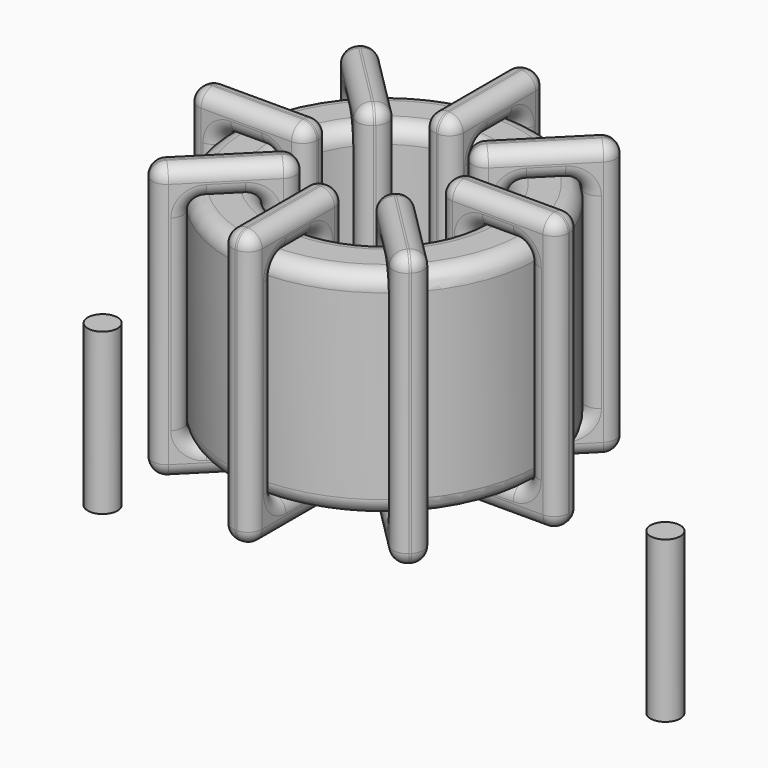
from build123d import *

# Parameters (mm, degrees)
SKETCH001_R       = 0.45
PAD001_DEPTH      = 0.45
PAD001_DEPTH_BACK = 4.4
SKETCH_R          = 4.688
SKETCH_R_2        = 2.9083
PAD_DEPTH         = 6.5
FILLET_R          = 0.5
SKETCH003_W       = 3.5797
SKETCH003_H       = 8.3
SKETCH003_W_2     = 1.7797
SKETCH003_H_2     = 6.5
PAD002_DEPTH      = 0.45
FILLET001_R       = 0.423
SKETCH004_W       = 3.5797
SKETCH004_H       = 8.3
SKETCH004_W_2     = 1.7797
SKETCH004_H_2     = 6.5
PAD003_DEPTH      = 0.45
FILLET002_R       = 0.423
SKETCH005_W       = 3.5797
SKETCH005_H       = 8.3
SKETCH005_W_2     = 1.7797
SKETCH005_H_2     = 6.5
PAD004_DEPTH      = 0.45
FILLET003_R       = 0.423
SKETCH006_W       = 3.5797
SKETCH006_H       = 8.3
SKETCH006_W_2     = 1.7797
SKETCH006_H_2     = 6.5
PAD005_DEPTH      = 0.45
FILLET004_R       = 0.423


with BuildPart() as pad001:
    # Sketch001 → Pad001 (new body, two sides)
    with BuildSketch(Plane.XY.offset(0.95)) as pad001_sk:
        Circle(SKETCH001_R)
        with Locations((17, 0)):
            Circle(SKETCH001_R)
    extrude(amount=PAD001_DEPTH)
    extrude(pad001_sk.sketch, amount=-PAD001_DEPTH_BACK)


with BuildPart() as fillet_body:
    # Sketch → Pad (new body)
    with BuildSketch(Plane.XY.offset(1.4)):
        with Locations((8.5, 0)):
            Circle(SKETCH_R)
        with Locations((8.5, 0)):
            Circle(SKETCH_R_2, mode=Mode.SUBTRACT)
    extrude(amount=PAD_DEPTH)

    # Fillet
    fillet_edges = [fillet_body.edges().sort_by_distance(p)[0] for p in [
        (5.5917, 0, 7.9),
        (3.812, 0, 7.9),
        (3.812, 0, 1.4),
    ]]
    fillet(fillet_edges, radius=FILLET_R)


with BuildPart() as fillet001:
    # Sketch003 → Pad002 (new body, symmetric)
    with BuildSketch(Plane(origin=(8.5, 0, 0), x_dir=(1, 0, 0), z_dir=(0, -1, 0))):
        with Locations((-3.79815, 4.65)):
            Rectangle(SKETCH003_W, SKETCH003_H)
        with Locations((-3.79815, 4.65)):
            Rectangle(SKETCH003_W_2, SKETCH003_H_2, mode=Mode.SUBTRACT)
        with Locations((3.79815, 4.65)):
            Rectangle(SKETCH003_W, SKETCH003_H)
        with Locations((3.79815, 4.65)):
            Rectangle(SKETCH003_W_2, SKETCH003_H_2, mode=Mode.SUBTRACT)
    extrude(amount=PAD002_DEPTH, both=True)

    # Fillet001
    fillet001_edges = [fillet001.edges().sort_by_distance(p)[0] for p in [
        (5.5917, 0, 7.9),
        (5.5917, 0, 1.4),
        (5.5917, 0.45, 4.65),
        (5.5917, -0.45, 4.65),
        (2.912, 0, 8.8),
        (6.4917, 0, 8.8),
        (4.70185, 0.45, 8.8),
        (4.70185, -0.45, 8.8),
        (6.4917, 0, 0.5),
        (6.4917, 0.45, 4.65),
        (6.4917, -0.45, 4.65),
        (11.4083, 0, 7.9),
        (13.188, 0, 7.9),
        (12.29815, 0.45, 7.9),
        (12.29815, -0.45, 7.9),
        (13.188, 0, 1.4),
        (13.188, 0.45, 4.65),
        (13.188, -0.45, 4.65),
        (10.5083, 0, 8.8),
        (14.088, 0, 8.8),
        (12.29815, 0.45, 8.8),
        (12.29815, -0.45, 8.8),
        (14.088, 0, 0.5),
        (14.088, 0.45, 4.65),
        (14.088, -0.45, 4.65),
        (3.812, 0, 7.9),
        (4.70185, 0.45, 7.9),
        (4.70185, -0.45, 7.9),
        (11.4083, 0, 1.4),
        (11.4083, 0.45, 4.65),
        (11.4083, -0.45, 4.65),
        (12.29815, 0.45, 1.4),
        (12.29815, -0.45, 1.4),
        (10.5083, 0, 0.5),
        (12.29815, 0.45, 0.5),
        (12.29815, -0.45, 0.5),
        (10.5083, 0.45, 4.65),
        (10.5083, -0.45, 4.65),
        (2.912, 0, 0.5),
        (4.70185, 0.45, 0.5),
        (4.70185, -0.45, 0.5),
        (2.912, 0.45, 4.65),
        (2.912, -0.45, 4.65),
        (3.812, 0, 1.4),
        (3.812, 0.45, 4.65),
        (3.812, -0.45, 4.65),
        (4.70185, 0.45, 1.4),
        (4.70185, -0.45, 1.4),
    ]]
    fillet(fillet001_edges, radius=FILLET001_R)


with BuildPart() as fillet002:
    # Sketch004 → Pad003 (new body, symmetric)
    with BuildSketch(Plane(origin=(8.5, 0, 0), x_dir=(0.707107, 0.707107, 0), z_dir=(0.707107, -0.707107, 0))):
        with Locations((-3.79815, 4.65)):
            Rectangle(SKETCH004_W, SKETCH004_H)
        with Locations((-3.79815, 4.65)):
            Rectangle(SKETCH004_W_2, SKETCH004_H_2, mode=Mode.SUBTRACT)
        with Locations((3.79815, 4.65)):
            Rectangle(SKETCH004_W, SKETCH004_H)
        with Locations((3.79815, 4.65)):
            Rectangle(SKETCH004_W_2, SKETCH004_H_2, mode=Mode.SUBTRACT)
    extrude(amount=PAD003_DEPTH, both=True)

    # Fillet002
    fillet002_edges = [fillet002.edges().sort_by_distance(p)[0] for p in [
        (6.443521, -2.056479, 7.9),
        (6.443521, -2.056479, 1.4),
        (6.125323, -1.738281, 4.65),
        (6.761719, -2.374677, 4.65),
        (4.548687, -3.951313, 8.8),
        (7.079917, -1.420083, 8.8),
        (5.496104, -2.3675, 8.8),
        (6.1325, -3.003896, 8.8),
        (7.079917, -1.420083, 0.5),
        (6.761719, -1.101884, 4.65),
        (7.398116, -1.738281, 4.65),
        (10.556479, 2.056479, 7.9),
        (11.814917, 3.314917, 7.9),
        (10.8675, 3.003896, 7.9),
        (11.503896, 2.3675, 7.9),
        (11.814917, 3.314917, 1.4),
        (11.496719, 3.633115, 4.65),
        (12.133115, 2.996719, 4.65),
        (9.920083, 1.420083, 8.8),
        (12.451313, 3.951313, 8.8),
        (10.8675, 3.003896, 8.8),
        (11.503896, 2.3675, 8.8),
        (12.451313, 3.951313, 0.5),
        (12.133115, 4.269511, 4.65),
        (12.769511, 3.633115, 4.65),
        (5.185083, -3.314917, 7.9),
        (5.496104, -2.3675, 7.9),
        (6.1325, -3.003896, 7.9),
        (10.556479, 2.056479, 1.4),
        (10.238281, 2.374677, 4.65),
        (10.874677, 1.738281, 4.65),
        (10.8675, 3.003896, 1.4),
        (11.503896, 2.3675, 1.4),
        (9.920083, 1.420083, 0.5),
        (10.8675, 3.003896, 0.5),
        (11.503896, 2.3675, 0.5),
        (9.601884, 1.738281, 4.65),
        (10.238281, 1.101884, 4.65),
        (4.548687, -3.951313, 0.5),
        (5.496104, -2.3675, 0.5),
        (6.1325, -3.003896, 0.5),
        (4.230489, -3.633115, 4.65),
        (4.866885, -4.269511, 4.65),
        (5.185083, -3.314917, 1.4),
        (4.866885, -2.996719, 4.65),
        (5.503281, -3.633115, 4.65),
        (5.496104, -2.3675, 1.4),
        (6.1325, -3.003896, 1.4),
    ]]
    fillet(fillet002_edges, radius=FILLET002_R)


with BuildPart() as fillet003:
    # Sketch005 → Pad004 (new body, symmetric)
    with BuildSketch(Plane(origin=(8.5, 0, 0), x_dir=(0.707107, -0.707107, 0), z_dir=(-0.707107, -0.707107, 0))):
        with Locations((-3.79815, 4.65)):
            Rectangle(SKETCH005_W, SKETCH005_H)
        with Locations((-3.79815, 4.65)):
            Rectangle(SKETCH005_W_2, SKETCH005_H_2, mode=Mode.SUBTRACT)
        with Locations((3.79815, 4.65)):
            Rectangle(SKETCH005_W, SKETCH005_H)
        with Locations((3.79815, 4.65)):
            Rectangle(SKETCH005_W_2, SKETCH005_H_2, mode=Mode.SUBTRACT)
    extrude(amount=PAD004_DEPTH, both=True)

    # Fillet003
    fillet003_edges = [fillet003.edges().sort_by_distance(p)[0] for p in [
        (5.185083, 3.314917, 7.9),
        (6.443521, 2.056479, 1.4),
        (6.1325, 3.003896, 1.4),
        (5.496104, 2.3675, 1.4),
        (4.548687, 3.951313, 8.8),
        (7.079917, 1.420083, 8.8),
        (6.1325, 3.003896, 8.8),
        (5.496104, 2.3675, 8.8),
        (7.079917, 1.420083, 0.5),
        (7.398116, 1.738281, 4.65),
        (6.761719, 1.101884, 4.65),
        (10.556479, -2.056479, 1.4),
        (10.556479, -2.056479, 7.9),
        (10.874677, -1.738281, 4.65),
        (10.238281, -2.374677, 4.65),
        (11.814917, -3.314917, 1.4),
        (11.503896, -2.3675, 1.4),
        (10.8675, -3.003896, 1.4),
        (9.920083, -1.420083, 8.8),
        (12.451313, -3.951313, 8.8),
        (11.503896, -2.3675, 8.8),
        (10.8675, -3.003896, 8.8),
        (12.451313, -3.951313, 0.5),
        (12.769511, -3.633115, 4.65),
        (12.133115, -4.269511, 4.65),
        (5.185083, 3.314917, 1.4),
        (5.503281, 3.633115, 4.65),
        (4.866885, 2.996719, 4.65),
        (11.814917, -3.314917, 7.9),
        (11.503896, -2.3675, 7.9),
        (10.8675, -3.003896, 7.9),
        (12.133115, -2.996719, 4.65),
        (11.496719, -3.633115, 4.65),
        (9.920083, -1.420083, 0.5),
        (11.503896, -2.3675, 0.5),
        (10.8675, -3.003896, 0.5),
        (10.238281, -1.101884, 4.65),
        (9.601884, -1.738281, 4.65),
        (4.548687, 3.951313, 0.5),
        (6.1325, 3.003896, 0.5),
        (5.496104, 2.3675, 0.5),
        (4.866885, 4.269511, 4.65),
        (4.230489, 3.633115, 4.65),
        (6.443521, 2.056479, 7.9),
        (6.1325, 3.003896, 7.9),
        (5.496104, 2.3675, 7.9),
        (6.761719, 2.374677, 4.65),
        (6.125323, 1.738281, 4.65),
    ]]
    fillet(fillet003_edges, radius=FILLET003_R)


with BuildPart() as fillet004:
    # Sketch006 → Pad005 (new body, symmetric)
    with BuildSketch(Plane.YZ.offset(8.5)):
        with Locations((-3.79815, 4.65)):
            Rectangle(SKETCH006_W, SKETCH006_H)
        with Locations((-3.79815, 4.65)):
            Rectangle(SKETCH006_W_2, SKETCH006_H_2, mode=Mode.SUBTRACT)
        with Locations((3.79815, 4.65)):
            Rectangle(SKETCH006_W, SKETCH006_H)
        with Locations((3.79815, 4.65)):
            Rectangle(SKETCH006_W_2, SKETCH006_H_2, mode=Mode.SUBTRACT)
    extrude(amount=PAD005_DEPTH, both=True)

    # Fillet004
    fillet004_edges = [fillet004.edges().sort_by_distance(p)[0] for p in [
        (8.5, -2.9083, 7.9),
        (8.5, -2.9083, 1.4),
        (8.05, -2.9083, 4.65),
        (8.95, -2.9083, 4.65),
        (8.5, -5.588, 8.8),
        (8.5, -2.0083, 8.8),
        (8.05, -3.79815, 8.8),
        (8.95, -3.79815, 8.8),
        (8.5, -2.0083, 0.5),
        (8.05, -2.0083, 4.65),
        (8.95, -2.0083, 4.65),
        (8.5, 2.9083, 7.9),
        (8.5, 4.688, 7.9),
        (8.05, 3.79815, 7.9),
        (8.95, 3.79815, 7.9),
        (8.5, 4.688, 1.4),
        (8.05, 4.688, 4.65),
        (8.95, 4.688, 4.65),
        (8.5, 2.0083, 8.8),
        (8.5, 5.588, 8.8),
        (8.05, 3.79815, 8.8),
        (8.95, 3.79815, 8.8),
        (8.5, 5.588, 0.5),
        (8.05, 5.588, 4.65),
        (8.95, 5.588, 4.65),
        (8.5, -4.688, 7.9),
        (8.05, -3.79815, 7.9),
        (8.95, -3.79815, 7.9),
        (8.5, 2.9083, 1.4),
        (8.05, 2.9083, 4.65),
        (8.95, 2.9083, 4.65),
        (8.05, 3.79815, 1.4),
        (8.95, 3.79815, 1.4),
        (8.5, 2.0083, 0.5),
        (8.05, 3.79815, 0.5),
        (8.95, 3.79815, 0.5),
        (8.05, 2.0083, 4.65),
        (8.95, 2.0083, 4.65),
        (8.5, -5.588, 0.5),
        (8.05, -3.79815, 0.5),
        (8.95, -3.79815, 0.5),
        (8.05, -5.588, 4.65),
        (8.95, -5.588, 4.65),
        (8.5, -4.688, 1.4),
        (8.05, -4.688, 4.65),
        (8.95, -4.688, 4.65),
        (8.05, -3.79815, 1.4),
        (8.95, -3.79815, 1.4),
    ]]
    fillet(fillet004_edges, radius=FILLET004_R)


solid = Compound([pad001.part, fillet_body.part, fillet001.part, fillet002.part, fillet003.part, fillet004.part])
